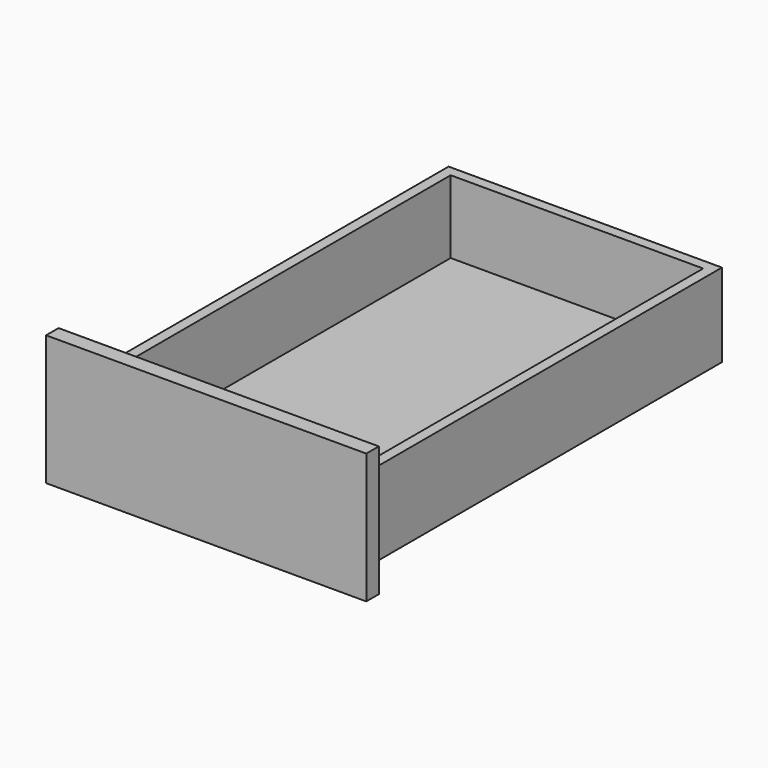
from build123d import *

# Parameters (mm, degrees)
F0_W     = 390.525
F0_H     = 158.75
F1_DEPTH = 19.05
F3_DEPTH = 558.8
F4_W     = 307.975
F4_H     = 533.4
F5_DEPTH = 88.9


with BuildPart() as f1:
    # F0 (on Front) → F1 (new body)
    with BuildSketch(Plane.XZ):
        Rectangle(F0_W, F0_H)
    extrude(amount=F1_DEPTH)

    # F2 (on face) → F3 (join)
    with BuildSketch(Plane(origin=(0, 0, 0), x_dir=(-1, 0, 0), z_dir=(0, 1, 0))):
        Polygon((-166.6875, -66.675), (0, -66.675), (166.6875, -66.675), (166.6875, 34.925), (-166.6875, 34.925), align=None)
    extrude(amount=F3_DEPTH)

    # F4 (on face) → F5 (cut)
    with BuildSketch(Plane.XY.offset(34.925)):
        with Locations((0, 279.4)):
            Rectangle(F4_W, F4_H)
    extrude(amount=-F5_DEPTH, mode=Mode.SUBTRACT)


solid = f1.part
